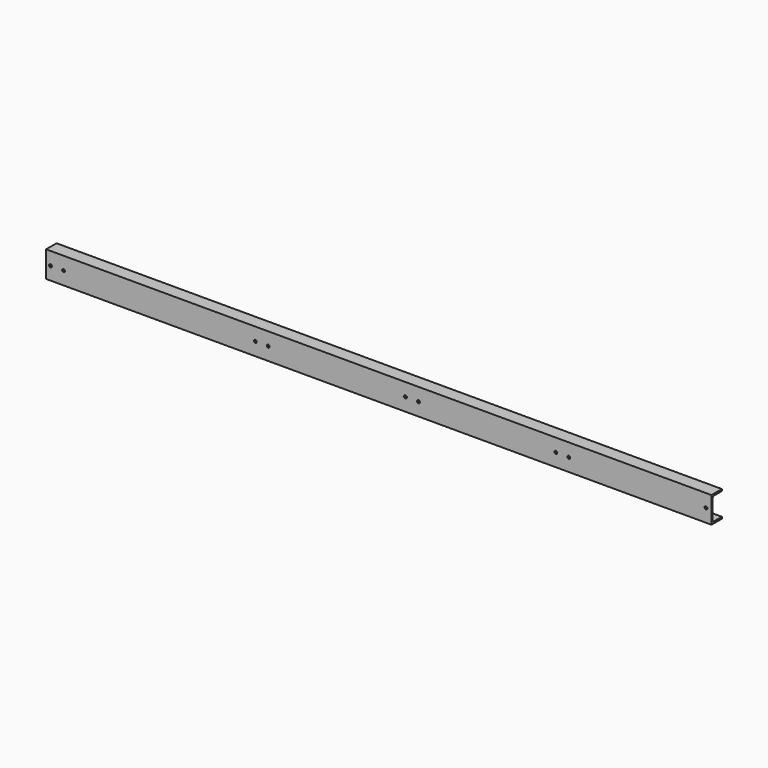
from build123d import *

# Parameters (mm, degrees)
F3_DEPTH = 3055
F4_R     = 6.5
F5_DEPTH = 8
F6_R     = 6.5
F7_DEPTH = 60.001


with BuildPart() as f3:
    # F2 (on Right) → F3 (new body)
    with BuildSketch(Plane.YZ):
        with BuildLine():
            Line((-60, 0), (0, 0))
            Line((0, 0), (0, 8))
            Line((0, 8), (-43, 8))
            ThreePointArc((-43, 8), (-51.4852813742, 11.5147186258), (-55, 20))
            Line((-55, 20), (-55, 100))
            ThreePointArc((-55, 100), (-51.4852813742, 108.4852813742), (-43, 112))
            Line((-43, 112), (0, 112))
            Line((0, 112), (0, 120))
            Line((0, 120), (-60, 120))
            Line((-60, 120), (-60, 0))
        make_face()
    extrude(amount=-F3_DEPTH)

    # F4 (on face) → F5 (cut, through all)
    with BuildSketch(Plane.XY.offset(8)):
        with Locations((-2840, -20)):
            Circle(F4_R)
        with Locations((-2660, -20)):
            Circle(F4_R)
        with Locations((-85, -20)):
            Circle(F4_R)
    extrude(amount=-F5_DEPTH, mode=Mode.SUBTRACT)

    # F6 (on face) → F7 (cut, through all)
    with BuildSketch(Plane.XZ.offset(60)):
        with Locations((-3035, 60)):
            Circle(F6_R)
        with Locations((-2975, 60)):
            Circle(F6_R)
        with Locations((-2095, 60)):
            Circle(F6_R)
        with Locations((-2035, 60)):
            Circle(F6_R)
        with Locations((-1405, 60)):
            Circle(F6_R)
        with Locations((-1345, 60)):
            Circle(F6_R)
        with Locations((-715, 60)):
            Circle(F6_R)
        with Locations((-655, 60)):
            Circle(F6_R)
        with Locations((-25, 60)):
            Circle(F6_R)
    extrude(amount=-F7_DEPTH, mode=Mode.SUBTRACT)


solid = f3.part
